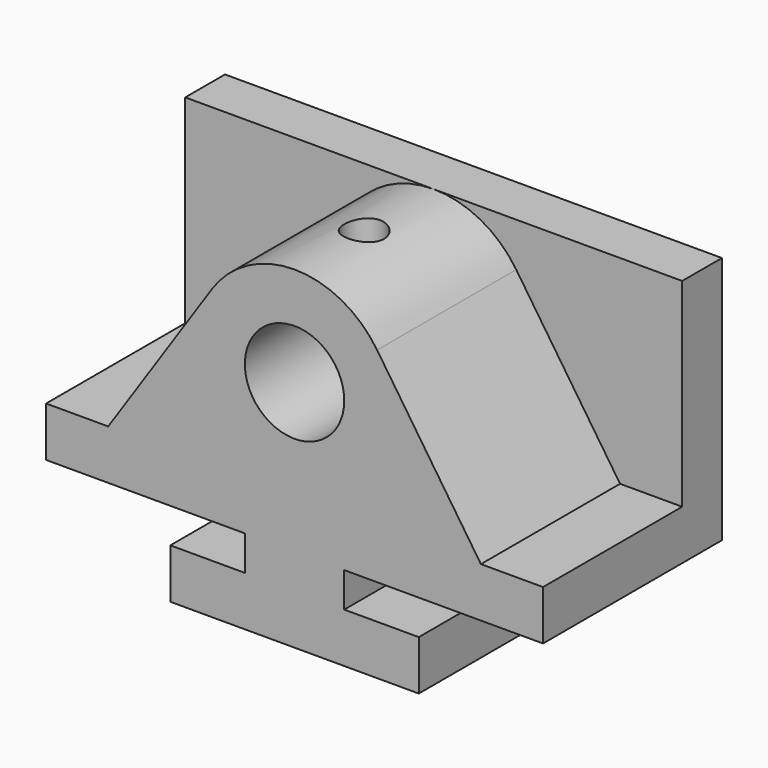
from build123d import *

# Parameters (mm, degrees)
F0_R     = 0.5
F1_DEPTH = 1.75
F2_W     = 5
F2_H     = 2.5
F3_DEPTH = 0.5
F5_R     = 0.2
F6_DEPTH = 0.5427425305


with BuildPart() as f1:
    # F0 (on Front) → F1 (new body)
    with BuildSketch(Plane.XZ):
        with BuildLine():
            Line((-2.5, -1), (-2.5, -1.5))
            Line((-2.5, -1.5), (-0.5, -1.5))
            Line((-0.5, -1.5), (-0.5, -1.85))
            Line((-0.5, -1.85), (-1.25, -1.85))
            Line((-1.25, -1.85), (-1.25, -2.35))
            Line((-1.25, -2.35), (0, -2.35))
            Line((0, -2.35), (1.25, -2.35))
            Line((1.25, -2.35), (1.25, -1.85))
            Line((1.25, -1.85), (0.5, -1.85))
            Line((0.5, -1.85), (0.5, -1.5))
            Line((0.5, -1.5), (2.5, -1.5))
            Line((2.5, -1.5), (2.5, -1))
            Line((2.5, -1), (1.875, -1))
            Line((1.875, -1), (0.830449827, 0.5570934256))
            ThreePointArc((0.830449827, 0.5570934256), (0, 1), (-0.830449827, 0.5570934256))
            Line((-0.830449827, 0.5570934256), (-1.875, -1))
            Line((-1.875, -1), (-2.5, -1))
        make_face()
        Circle(F0_R, mode=Mode.SUBTRACT)
    extrude(amount=F1_DEPTH)

    # F2 (on face) → F3 (join)
    with BuildSketch(Plane(origin=(0, 0, 0), x_dir=(-1, 0, 0), z_dir=(0, 1, 0))):
        with Locations((0, -0.25)):
            Rectangle(F2_W, F2_H)
    extrude(amount=F3_DEPTH)

    # F5 (on offset) → F6 (cut, through all)
    with BuildSketch(Plane(origin=(0, 0, 1), x_dir=(1, 0, 0), z_dir=(0, 0, -1))):
        with Locations((0, 0.875)):
            Circle(F5_R)
    extrude(amount=F6_DEPTH, mode=Mode.SUBTRACT)


solid = f1.part
